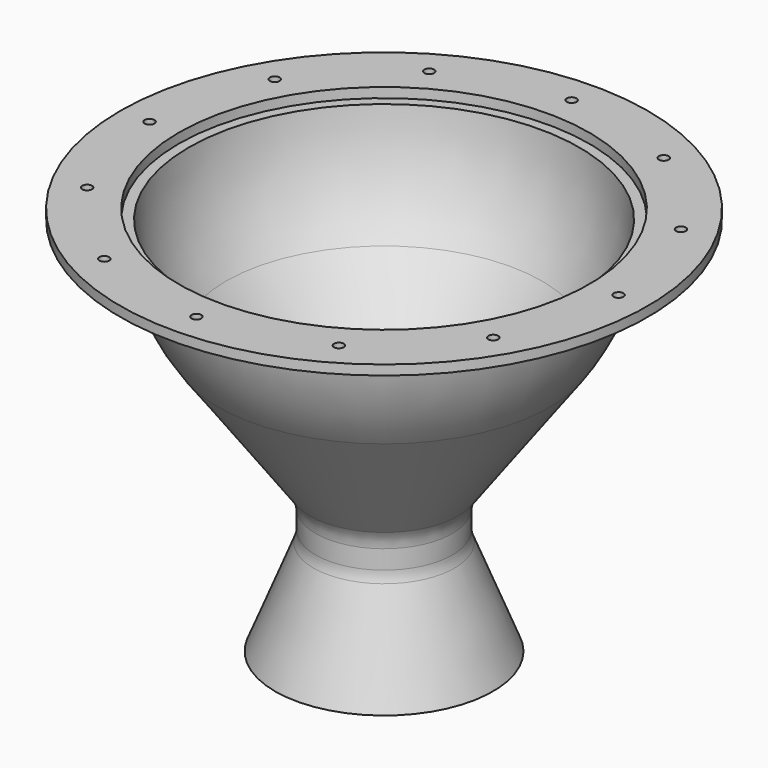
from build123d import *

# Parameters (mm, degrees)
F9_D      = 6.35
F12_R     = 3.175
F13_DEPTH = 25.4


with BuildPart() as f1:
    # F0 (on Front) → F1 (revolve)
    with BuildSketch(Plane.XZ):
        with BuildLine():
            ThreePointArc((0, 127), (89.802561, 89.802561), (127, 0))
            Line((127, 0), (127, -6.35))
            Line((127, -6.35), (133.35, -6.35))
            Line((133.35, -6.35), (133.35, 0))
            Line((133.35, 0), (171.45, 0))
            Line((171.45, 0), (171.45, 6.35))
            Line((171.45, 6.35), (133.198724, 6.35))
            ThreePointArc((133.198724, 6.35), (92.020242, 96.511644), (0, 133.35))
            Line((0, 133.35), (0, 127))
        make_face()
    revolve(axis=Axis((0, 0, 13.31393), (0, 0, 1)))

    # F4 (on Front) → F5 (revolve, cut)
    with BuildSketch(Plane.XZ):
        with BuildLine():
            ThreePointArc((89.802561, 89.802561), (94.185721, 85.19419), (98.332676, 80.372164))
            Line((98.332676, 80.372164), (100.775306, 82.814794))
            Line((100.775306, 82.814794), (103.02037, 80.56973))
            Line((103.02037, 80.56973), (110.363235, 87.912594))
            Line((110.363235, 87.912594), (94.292689, 94.292689))
            Line((94.292689, 94.292689), (89.802561, 89.802561))
        make_face()
    revolve(axis=Axis((92.047625, 0, 92.047625), (0.707107, 0, 0.707107)), mode=Mode.SUBTRACT)

    # F6 (on Front) → F7 (revolve, cut)
    with BuildSketch(Plane.XZ):
        with BuildLine():
            ThreePointArc((-7.9375, 126.75171), (-3.970691, 126.937912), (0, 127))
            Line((0, 127), (0, 133.35))
            ThreePointArc((0, 133.35), (-3.97051, 133.290876), (-7.9375, 133.113555))
            Line((-7.9375, 133.113555), (-7.9375, 126.75171))
        make_face()
    revolve(axis=Axis((0, 0, 130.175), (0, 0, 1)), mode=Mode.SUBTRACT)

    # F9 (through all)
    with Locations(Plane.XY.offset(6.35)):
        with Locations((0, -152.324362)):
            Hole(F9_D / 2)


with BuildPart() as f11:
    # F10 (on Front) → F11 (revolve)
    with BuildSketch(Plane.XZ):
        with BuildLine():
            Line((-133.35, 0), (-171.45, 0))
            Line((-171.45, 0), (-171.45, -6.35))
            Line((-171.45, -6.35), (-142.875, -6.35))
            ThreePointArc((-142.875, -6.35), (-140.629936, -7.279936), (-139.7, -9.525))
            Line((-139.7, -9.525), (-139.7, -15.055494))
            Line((-139.7, -15.055494), (-135.302346, -15.055494))
            ThreePointArc((-135.302346, -15.055494), (-133.212545, -15.840231), (-132.155779, -17.806529))
            ThreePointArc((-132.155779, -17.806529), (-123.729304, -49.732101), (-107.716849, -78.608542))
            Line((-107.716849, -78.608542), (-48.111879, -160.284902))
            ThreePointArc((-48.111879, -160.284902), (-45.388592, -165.608816), (-44.45, -171.514694))
            Line((-44.45, -171.514694), (-44.45, -183.740515))
            ThreePointArc((-44.45, -183.740515), (-44.793731, -187.343013), (-45.812519, -190.815507))
            Line((-45.812519, -190.815507), (-70.758346, -253.180075))
            Line((-70.758346, -253.180075), (-64.862519, -255.538405))
            Line((-64.862519, -255.538405), (-39.916692, -193.173838))
            ThreePointArc((-39.916692, -193.173838), (-38.558308, -188.543846), (-38.1, -183.740515))
            Line((-38.1, -183.740515), (-38.1, -171.514694))
            ThreePointArc((-38.1, -171.514694), (-39.351456, -163.64019), (-42.982505, -156.541638))
            Line((-42.982505, -156.541638), (-102.587475, -74.865278))
            ThreePointArc((-102.587475, -74.865278), (-119.720338, -42.379719), (-126.841151, -6.35))
            Line((-126.841151, -6.35), (-133.35, -6.35))
            Line((-133.35, -6.35), (-133.35, 0))
        make_face()
    revolve(axis=Axis((0, 0, -52.348059), (0, 0, -1)))

    # F12 (on face) → F13 (cut)
    with BuildSketch(Plane.XY):
        with Locations((0, -152.324362)):
            Circle(F12_R)
        with Locations((76.162181, -131.916767)):
            Circle(F12_R)
        with Locations((131.916767, -76.162181)):
            Circle(F12_R)
        with Locations((152.324362, 0)):
            Circle(F12_R)
        with Locations((131.916767, 76.162181)):
            Circle(F12_R)
        with Locations((76.162181, 131.916767)):
            Circle(F12_R)
        with Locations((0, 152.324362)):
            Circle(F12_R)
        with Locations((-76.162181, 131.916767)):
            Circle(F12_R)
        with Locations((-131.916767, 76.162181)):
            Circle(F12_R)
        with Locations((-152.324362, 0)):
            Circle(F12_R)
        with Locations((-131.916767, -76.162181)):
            Circle(F12_R)
        with Locations((-76.162181, -131.916767)):
            Circle(F12_R)
    extrude(amount=-F13_DEPTH, mode=Mode.SUBTRACT)


solid = f11.part
